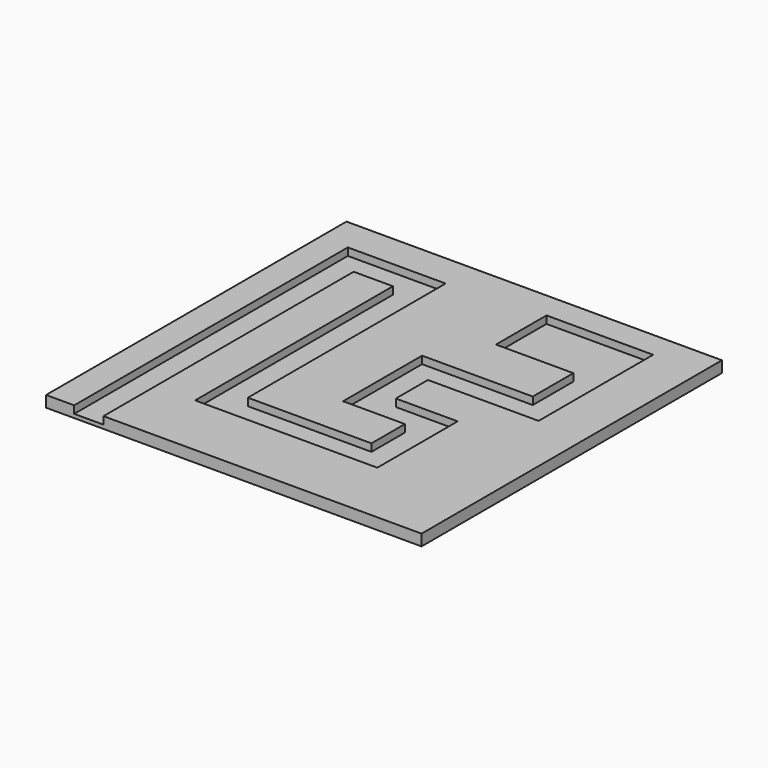
from build123d import *

# Parameters (mm, degrees)
F0_W     = 127
F0_H     = 127
F1_DEPTH = 3.81
F3_DEPTH = 2.54
F5_DEPTH = 2.54


with BuildPart() as f1:
    # F0 (on Top) → F1 (new body)
    with BuildSketch(Plane.XY):
        Rectangle(F0_W, F0_H)
    extrude(amount=F1_DEPTH)

    # F2 (on face) → F3 (cut)
    with BuildSketch(Plane.XY.offset(3.81)):
        Polygon((-53.991713, 52.186977), (-53.991713, -63.5), (-44.085711, -63.5), (-44.085711, 42.280976), (-30.810868, 42.280976), (-30.810868, -41.3385), (30.810867, -41.3385), (30.810867, -7.389393), (9.906001, -7.389393), (9.906001, 6.186236), (47.354292, 6.186236), (47.354292, 33.237237), (37.448291, 33.237237), (37.448291, 16.092237), (0, 16.092237), (0, -17.295394), (20.904865, -17.295394), (20.904865, -31.432498), (-20.904867, -31.432498), (-20.904867, 52.186977), align=None)
    extrude(amount=-F3_DEPTH, mode=Mode.SUBTRACT)

    # F4 (on face) → F5 (cut)
    with BuildSketch(Plane.XY.offset(3.81)):
        Polygon((37.448291, 33.237237), (47.354292, 33.237237), (47.354292, 54.593291), (11.279603, 54.593291), (11.279603, 33.237237), align=None)
    extrude(amount=-F5_DEPTH, mode=Mode.SUBTRACT)


solid = f1.part
